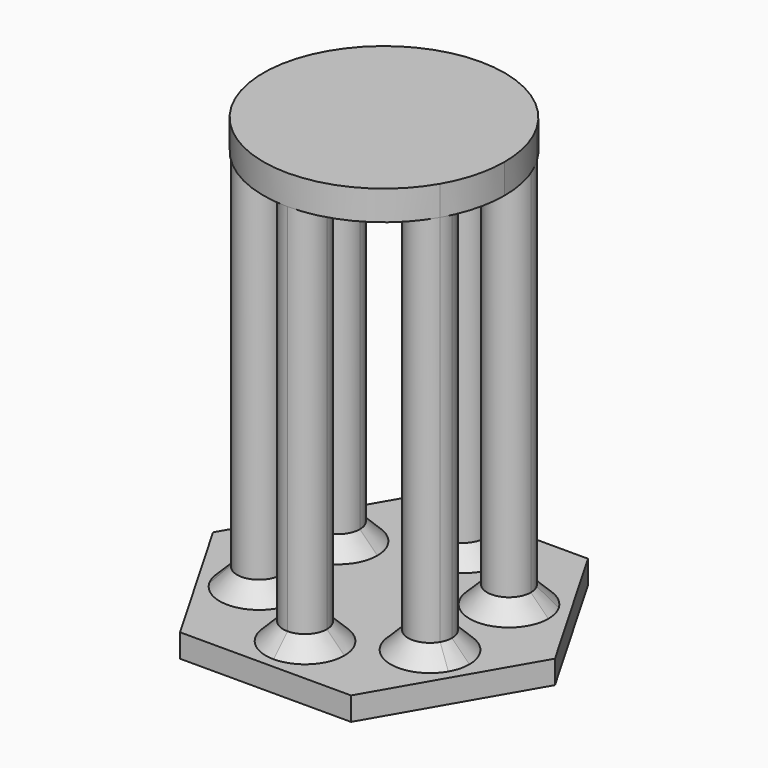
from build123d import *

# Parameters (mm, degrees)
F1_DEPTH = 4
F2_DEPTH = 71.12
F3_START = 71.12
F3_DEPTH = 5.08
F4_SIZE  = 3


with BuildPart() as f1:
    # F0 (on Top) → F1 (new body)
    with BuildSketch(Plane.XY):
        Polygon((14.6646968374, 25.4), (-14.6646968374, 25.4), (-29.3293936748, 0), (-14.6646968374, -25.4), (14.6646968374, -25.4), (29.3293936748, 0), align=None)
        with BuildLine():
            ThreePointArc((-17.9122922144, -10.3416664713), (-20.6833333333, 1.129e-07), (-17.9122921015, 10.3416666669))
            ThreePointArc((-17.9122921015, 10.3416666669), (-10.3416666665, 17.9122921017), (0, 20.6833333333))
            ThreePointArc((0, 20.6833333333), (10.3416667666, 17.9122920439), (17.912292217, 10.3416664668))
            ThreePointArc((17.912292217, 10.3416664668), (19.9785658703, 5.3532404714), (20.6833333333, 0))
            ThreePointArc((20.6833333333, 0), (19.9785658556, -5.3532405263), (17.9122921602, -10.3416665652))
            ThreePointArc((17.9122921602, -10.3416665652), (10.3416666949, -17.9122920853), (-5.2e-08, -20.6833333333))
            ThreePointArc((-5.2e-08, -20.6833333333), (-10.3416667868, -17.9122920322), (-17.9122922144, -10.3416664713))
        make_face(mode=Mode.SUBTRACT)
        with BuildLine():
            ThreePointArc((0, 20.6833333333), (-10.3416666665, 17.9122921017), (-17.9122921015, 10.3416666669))
            ThreePointArc((-17.9122921015, 10.3416666669), (-20.6833333333, 1.129e-07), (-17.9122922144, -10.3416664713))
            ThreePointArc((-17.9122922144, -10.3416664713), (-10.3416667868, -17.9122920322), (-5.2e-08, -20.6833333333))
            ThreePointArc((-5.2e-08, -20.6833333333), (10.3416666949, -17.9122920853), (17.9122921602, -10.3416665652))
            ThreePointArc((17.9122921602, -10.3416665652), (19.9785658556, -5.3532405263), (20.6833333333, 0))
            ThreePointArc((20.6833333333, 0), (19.9785658703, 5.3532404714), (17.912292217, 10.3416664668))
            ThreePointArc((17.912292217, 10.3416664668), (10.3416667666, 17.9122920439), (0, 20.6833333333))
        make_face()
        with BuildLine():
            ThreePointArc((-10.9146968374, -8.4666666667), (-13.6941255272, -12.0888885444), (-17.9122922144, -10.3416664713))
            ThreePointArc((-17.9122922144, -10.3416664713), (-15.6352681476, -4.8444447889), (-10.9146968374, -8.4666666667))
        make_face(mode=Mode.SUBTRACT)
        with BuildLine():
            ThreePointArc((3.75, -16.9333333333), (2.6516504111, -19.5849837812), (-5.2e-08, -20.6833333333))
            ThreePointArc((-5.2e-08, -20.6833333333), (-2.6516504111, -14.2816828855), (3.75, -16.9333333333))
        make_face(mode=Mode.SUBTRACT)
        with BuildLine():
            ThreePointArc((18.4146968374, -8.4666666667), (18.2869187012, -9.4372380292), (17.9122921602, -10.3416665652))
            ThreePointArc((17.9122921602, -10.3416665652), (11.0424749737, -7.4960953041), (18.4146968374, -8.4666666667))
        make_face(mode=Mode.SUBTRACT)
        with BuildLine():
            ThreePointArc((-17.9122921015, 10.3416666669), (-13.6941254181, 12.0888885152), (-10.9146968374, 8.4666666667))
            ThreePointArc((-10.9146968374, 8.4666666667), (-15.6352682567, 4.8444448181), (-17.9122921015, 10.3416666669))
        make_face(mode=Mode.SUBTRACT)
        with BuildLine():
            ThreePointArc((18.4146968374, 8.4666666667), (11.042474959, 7.496095359), (17.912292217, 10.3416664668))
            ThreePointArc((17.912292217, 10.3416664668), (18.2869187159, 9.4372379743), (18.4146968374, 8.4666666667))
        make_face(mode=Mode.SUBTRACT)
        with BuildLine():
            ThreePointArc((3.75, 16.9333333333), (-2.6516504294, 14.2816829039), (0, 20.6833333333))
            ThreePointArc((0, 20.6833333333), (2.6516504294, 19.5849837628), (3.75, 16.9333333333))
        make_face(mode=Mode.SUBTRACT)
        with BuildLine():
            ThreePointArc((-17.9122921015, 10.3416666669), (-15.6352682567, 4.8444448181), (-10.9146968374, 8.4666666667))
            ThreePointArc((-10.9146968374, 8.4666666667), (-13.6941254181, 12.0888885152), (-17.9122921015, 10.3416666669))
        make_face()
        with BuildLine():
            ThreePointArc((3.75, 16.9333333333), (2.6516504294, 19.5849837628), (0, 20.6833333333))
            ThreePointArc((0, 20.6833333333), (-2.6516504294, 14.2816829039), (3.75, 16.9333333333))
        make_face()
        with BuildLine():
            ThreePointArc((18.4146968374, 8.4666666667), (18.2869187159, 9.4372379743), (17.912292217, 10.3416664668))
            ThreePointArc((17.912292217, 10.3416664668), (11.042474959, 7.496095359), (18.4146968374, 8.4666666667))
        make_face()
        with BuildLine():
            ThreePointArc((18.4146968374, -8.4666666667), (11.0424749737, -7.4960953041), (17.9122921602, -10.3416665652))
            ThreePointArc((17.9122921602, -10.3416665652), (18.2869187012, -9.4372380292), (18.4146968374, -8.4666666667))
        make_face()
        with BuildLine():
            ThreePointArc((-10.9146968374, -8.4666666667), (-15.6352681476, -4.8444447889), (-17.9122922144, -10.3416664713))
            ThreePointArc((-17.9122922144, -10.3416664713), (-13.6941255272, -12.0888885444), (-10.9146968374, -8.4666666667))
        make_face()
        with BuildLine():
            ThreePointArc((3.75, -16.9333333333), (-2.6516504111, -14.2816828855), (-5.2e-08, -20.6833333333))
            ThreePointArc((-5.2e-08, -20.6833333333), (2.6516504111, -19.5849837812), (3.75, -16.9333333333))
        make_face()
    extrude(amount=F1_DEPTH)

    # F0 (on Top) → F2 (join)
    with BuildSketch(Plane.XY):
        with BuildLine():
            ThreePointArc((3.75, 16.9333333333), (2.6516504294, 19.5849837628), (0, 20.6833333333))
            ThreePointArc((0, 20.6833333333), (-2.6516504294, 14.2816829039), (3.75, 16.9333333333))
        make_face()
        with BuildLine():
            ThreePointArc((-17.9122921015, 10.3416666669), (-15.6352682567, 4.8444448181), (-10.9146968374, 8.4666666667))
            ThreePointArc((-10.9146968374, 8.4666666667), (-13.6941254181, 12.0888885152), (-17.9122921015, 10.3416666669))
        make_face()
        with BuildLine():
            ThreePointArc((18.4146968374, 8.4666666667), (18.2869187159, 9.4372379743), (17.912292217, 10.3416664668))
            ThreePointArc((17.912292217, 10.3416664668), (11.042474959, 7.496095359), (18.4146968374, 8.4666666667))
        make_face()
        with BuildLine():
            ThreePointArc((18.4146968374, -8.4666666667), (11.0424749737, -7.4960953041), (17.9122921602, -10.3416665652))
            ThreePointArc((17.9122921602, -10.3416665652), (18.2869187012, -9.4372380292), (18.4146968374, -8.4666666667))
        make_face()
        with BuildLine():
            ThreePointArc((3.75, -16.9333333333), (-2.6516504111, -14.2816828855), (-5.2e-08, -20.6833333333))
            ThreePointArc((-5.2e-08, -20.6833333333), (2.6516504111, -19.5849837812), (3.75, -16.9333333333))
        make_face()
        with BuildLine():
            ThreePointArc((-10.9146968374, -8.4666666667), (-15.6352681476, -4.8444447889), (-17.9122922144, -10.3416664713))
            ThreePointArc((-17.9122922144, -10.3416664713), (-13.6941255272, -12.0888885444), (-10.9146968374, -8.4666666667))
        make_face()
    extrude(amount=F2_DEPTH)

    # F4
    f4_edges = [f1.edges().sort_by_distance(p)[0] for p in [
        (11.417102, -6.591667, 4),
        (-3.75, -16.933333, 4),
        (11.417101, 6.591667, 4),
        (-3.75, 16.933333, 4),
        (-11.417102, 6.591667, 4),
        (-11.417101, -6.591667, 4),
    ]]
    chamfer(f4_edges, length=F4_SIZE)


with BuildPart() as f3:
    # F0 (on Top) → F3 (new body)
    with BuildSketch(Plane.XY.offset(F3_START)):
        with BuildLine():
            ThreePointArc((0, 20.6833333333), (-10.3416666665, 17.9122921017), (-17.9122921015, 10.3416666669))
            ThreePointArc((-17.9122921015, 10.3416666669), (-20.6833333333, 1.129e-07), (-17.9122922144, -10.3416664713))
            ThreePointArc((-17.9122922144, -10.3416664713), (-10.3416667868, -17.9122920322), (-5.2e-08, -20.6833333333))
            ThreePointArc((-5.2e-08, -20.6833333333), (10.3416666949, -17.9122920853), (17.9122921602, -10.3416665652))
            ThreePointArc((17.9122921602, -10.3416665652), (19.9785658556, -5.3532405263), (20.6833333333, 0))
            ThreePointArc((20.6833333333, 0), (19.9785658703, 5.3532404714), (17.912292217, 10.3416664668))
            ThreePointArc((17.912292217, 10.3416664668), (10.3416667666, 17.9122920439), (0, 20.6833333333))
        make_face()
        with BuildLine():
            ThreePointArc((-10.9146968374, -8.4666666667), (-13.6941255272, -12.0888885444), (-17.9122922144, -10.3416664713))
            ThreePointArc((-17.9122922144, -10.3416664713), (-15.6352681476, -4.8444447889), (-10.9146968374, -8.4666666667))
        make_face(mode=Mode.SUBTRACT)
        with BuildLine():
            ThreePointArc((3.75, -16.9333333333), (2.6516504111, -19.5849837812), (-5.2e-08, -20.6833333333))
            ThreePointArc((-5.2e-08, -20.6833333333), (-2.6516504111, -14.2816828855), (3.75, -16.9333333333))
        make_face(mode=Mode.SUBTRACT)
        with BuildLine():
            ThreePointArc((18.4146968374, -8.4666666667), (18.2869187012, -9.4372380292), (17.9122921602, -10.3416665652))
            ThreePointArc((17.9122921602, -10.3416665652), (11.0424749737, -7.4960953041), (18.4146968374, -8.4666666667))
        make_face(mode=Mode.SUBTRACT)
        with BuildLine():
            ThreePointArc((-17.9122921015, 10.3416666669), (-13.6941254181, 12.0888885152), (-10.9146968374, 8.4666666667))
            ThreePointArc((-10.9146968374, 8.4666666667), (-15.6352682567, 4.8444448181), (-17.9122921015, 10.3416666669))
        make_face(mode=Mode.SUBTRACT)
        with BuildLine():
            ThreePointArc((18.4146968374, 8.4666666667), (11.042474959, 7.496095359), (17.912292217, 10.3416664668))
            ThreePointArc((17.912292217, 10.3416664668), (18.2869187159, 9.4372379743), (18.4146968374, 8.4666666667))
        make_face(mode=Mode.SUBTRACT)
        with BuildLine():
            ThreePointArc((3.75, 16.9333333333), (-2.6516504294, 14.2816829039), (0, 20.6833333333))
            ThreePointArc((0, 20.6833333333), (2.6516504294, 19.5849837628), (3.75, 16.9333333333))
        make_face(mode=Mode.SUBTRACT)
        with BuildLine():
            ThreePointArc((3.75, -16.9333333333), (-2.6516504111, -14.2816828855), (-5.2e-08, -20.6833333333))
            ThreePointArc((-5.2e-08, -20.6833333333), (2.6516504111, -19.5849837812), (3.75, -16.9333333333))
        make_face()
        with BuildLine():
            ThreePointArc((18.4146968374, -8.4666666667), (11.0424749737, -7.4960953041), (17.9122921602, -10.3416665652))
            ThreePointArc((17.9122921602, -10.3416665652), (18.2869187012, -9.4372380292), (18.4146968374, -8.4666666667))
        make_face()
        with BuildLine():
            ThreePointArc((18.4146968374, 8.4666666667), (18.2869187159, 9.4372379743), (17.912292217, 10.3416664668))
            ThreePointArc((17.912292217, 10.3416664668), (11.042474959, 7.496095359), (18.4146968374, 8.4666666667))
        make_face()
        with BuildLine():
            ThreePointArc((-10.9146968374, -8.4666666667), (-15.6352681476, -4.8444447889), (-17.9122922144, -10.3416664713))
            ThreePointArc((-17.9122922144, -10.3416664713), (-13.6941255272, -12.0888885444), (-10.9146968374, -8.4666666667))
        make_face()
        with BuildLine():
            ThreePointArc((-17.9122921015, 10.3416666669), (-15.6352682567, 4.8444448181), (-10.9146968374, 8.4666666667))
            ThreePointArc((-10.9146968374, 8.4666666667), (-13.6941254181, 12.0888885152), (-17.9122921015, 10.3416666669))
        make_face()
        with BuildLine():
            ThreePointArc((3.75, 16.9333333333), (2.6516504294, 19.5849837628), (0, 20.6833333333))
            ThreePointArc((0, 20.6833333333), (-2.6516504294, 14.2816829039), (3.75, 16.9333333333))
        make_face()
    extrude(amount=F3_DEPTH)


solid = Compound([f1.part, f3.part])
